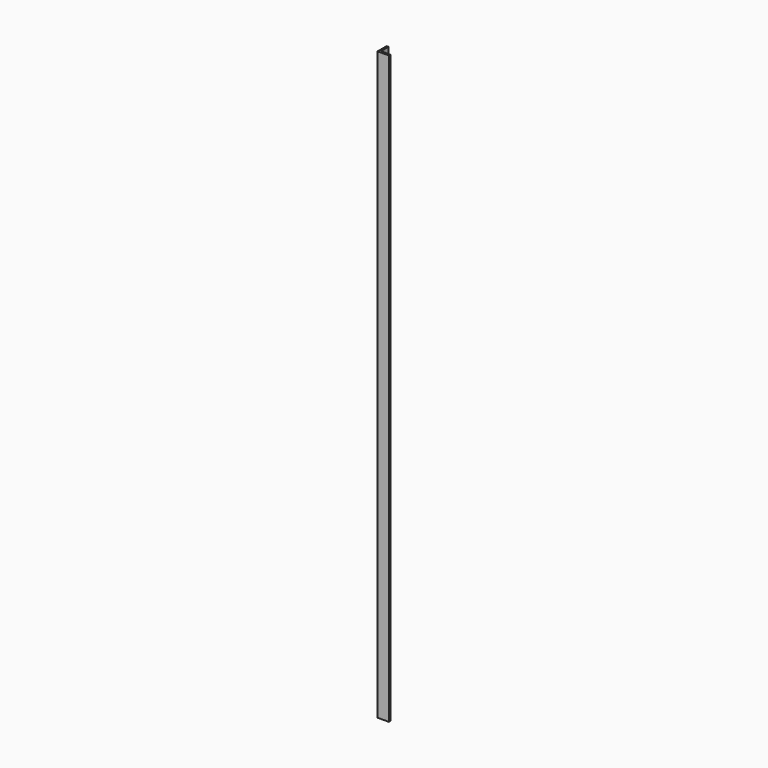
from build123d import *

# Parameters (mm, degrees)
PAD_DEPTH = 490


with BuildPart() as part:
    # Sketch → Pad (new body)
    with BuildSketch(Plane.XY):
        Polygon((0, 0), (0, 9.5), (1.6, 9.5), (1.6, 1.6), (9.5, 1.6), (9.5, 0), align=None)
    extrude(amount=PAD_DEPTH)


solid = part.part
